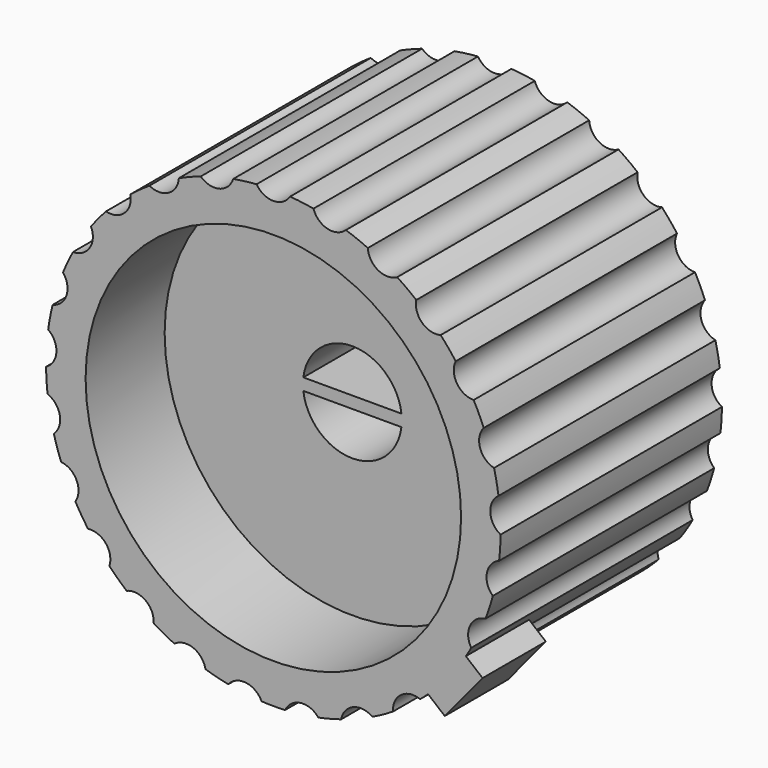
from build123d import *

# Parameters (mm, degrees)
F0_R     = 11.5
F1_DEPTH = 14
F2_R     = 9.5
F3_DEPTH = 5
F5_DEPTH = 8
F6_R     = 1
F7_DEPTH = 14.001
F9_DEPTH = 4


with BuildPart() as f1:
    # F0 (on Front) → F1 (new body)
    with BuildSketch(Plane.XZ):
        Circle(F0_R)
    extrude(amount=-F1_DEPTH)

    # F2 (on face) → F3 (cut)
    with BuildSketch(Plane.XZ):
        Circle(F2_R)
    extrude(amount=-F3_DEPTH, mode=Mode.SUBTRACT)

    # F4 (on face) → F5 (cut)
    with BuildSketch(Plane.XZ.offset(-5)):
        with BuildLine():
            Line((-2.481935, 0.3), (2.481935, 0.3))
            ThreePointArc((2.481935, 0.3), (0, 2.5), (-2.481935, 0.3))
        make_face()
        with BuildLine():
            Line((2.481935, -0.3), (-2.481935, -0.3))
            ThreePointArc((-2.481935, -0.3), (0, -2.5), (2.481935, -0.3))
        make_face()
    extrude(amount=-F5_DEPTH, mode=Mode.SUBTRACT)

    # F6 (on face) → F7 (cut, through all)
    with BuildSketch(Plane(origin=(0, 14, 0), x_dir=(-1, 0, 0), z_dir=(0, 1, 0))):
        with Locations((0, 12)):
            Circle(F6_R)
        with Locations((-2.984279, 11.622998)):
            Circle(F6_R)
        with Locations((-5.781044, 10.51568)):
            Circle(F6_R)
        with Locations((-8.214565, 8.747624)):
            Circle(F6_R)
        with Locations((-10.131935, 6.429922)):
            Circle(F6_R)
        with Locations((-11.412678, 3.708204)):
            Circle(F6_R)
        with Locations((-11.976321, 0.753486)):
            Circle(F6_R)
        with Locations((-11.787447, -2.248576)):
            Circle(F6_R)
        with Locations((-10.857925, -5.109351)):
            Circle(F6_R)
        with Locations((-9.246159, -7.649088)):
            Circle(F6_R)
        with Locations((-7.053423, -9.708204)):
            Circle(F6_R)
        with Locations((-4.417495, -11.157318)):
            Circle(F6_R)
        with Locations((-1.503999, -11.905376)):
            Circle(F6_R)
        with Locations((1.503999, -11.905376)):
            Circle(F6_R)
        with Locations((4.417495, -11.157318)):
            Circle(F6_R)
        with Locations((7.053423, -9.708204)):
            Circle(F6_R)
        with Locations((9.246159, -7.649088)):
            Circle(F6_R)
        with Locations((10.857925, -5.109351)):
            Circle(F6_R)
        with Locations((11.787447, -2.248576)):
            Circle(F6_R)
        with Locations((11.976321, 0.753486)):
            Circle(F6_R)
        with Locations((11.412678, 3.708204)):
            Circle(F6_R)
        with Locations((10.131935, 6.429922)):
            Circle(F6_R)
        with Locations((8.214565, 8.747624)):
            Circle(F6_R)
        with Locations((5.781044, 10.51568)):
            Circle(F6_R)
        with Locations((2.984279, 11.622998)):
            Circle(F6_R)
    extrude(amount=-F7_DEPTH, mode=Mode.SUBTRACT)

    # F8 (on face) → F9 (join)
    with BuildSketch(Plane.XZ):
        Polygon((8.67528, -9.12357), (10.587552, -6.81203), (8.661268, -5.21847), (6.748996, -7.53001), align=None)
    extrude(amount=-F9_DEPTH)


solid = f1.part
